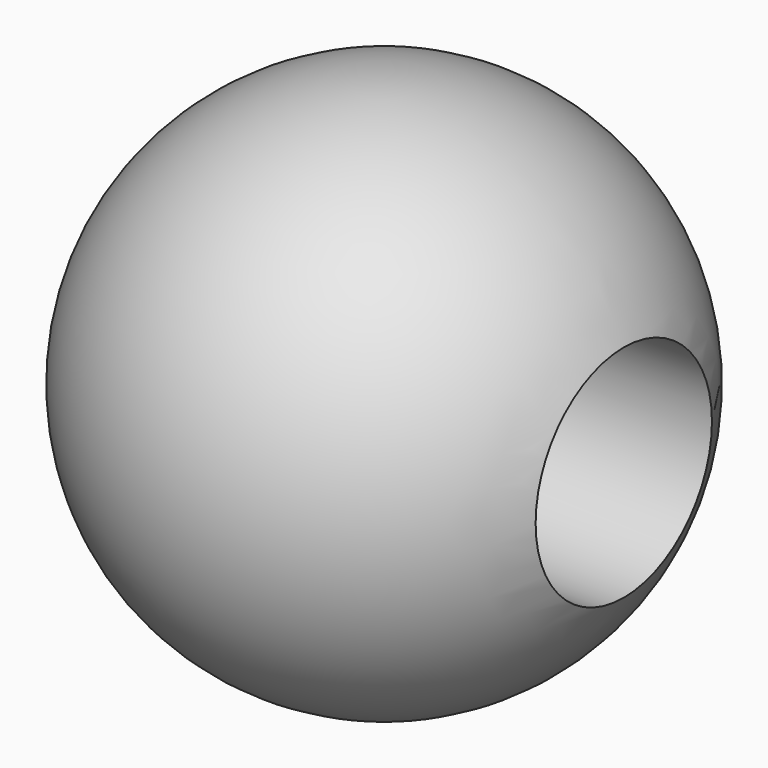
from build123d import *

# Parameters (mm, degrees)
F2_R     = 9.5
F3_DEPTH = 30


with BuildPart() as f1:
    # F0 (on Front) → F1 (revolve)
    with BuildSketch(Plane.XZ):
        with BuildLine():
            Line((0, 22.75), (0, -22.75))
            ThreePointArc((0, -22.75), (22.75, 0), (0, 22.75))
        make_face()
    revolve(axis=Axis((0, 0, 0), (0, 0, -1)))

    # F2 (on Right) → F3 (cut, symmetric)
    with BuildSketch(Plane.YZ):
        Circle(F2_R)
    extrude(amount=F3_DEPTH, both=True, mode=Mode.SUBTRACT)


solid = f1.part
